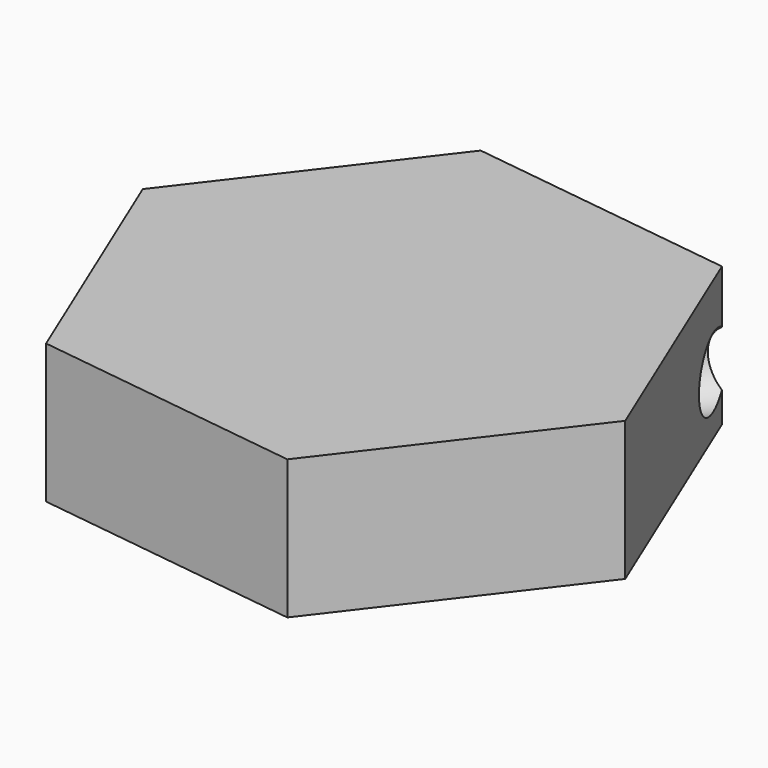
from build123d import *

# Parameters (mm, degrees)
F1_DEPTH = 19.8
F3_R     = 4.9526613481
F4_DEPTH = 65.3


with BuildPart() as f1:
    # F0 (on Top) → F1 (new body)
    with BuildSketch(Plane.XY):
        Polygon((-14.8147411769, 35.708468128), (-38.3318111176, 5.0242918543), (-23.5170699406, -30.6841762737), (14.8147411769, -35.708468128), (38.3318111176, -5.0242918543), (23.5170699406, 30.6841762737), align=None)
    extrude(amount=F1_DEPTH)

    # F3 (on 3pt) → F4 (cut)
    with BuildSketch(Plane(origin=(-11.7585349703, -15.3420881369, 0), x_dir=(0.7936995915, -0.6083099197, 0), z_dir=(-0.6083099197, -0.7936995915, 0))):
        with Locations((2.9954884667, 8.2673216239)):
            Circle(F3_R)
    extrude(amount=-F4_DEPTH, mode=Mode.SUBTRACT)


solid = f1.part
